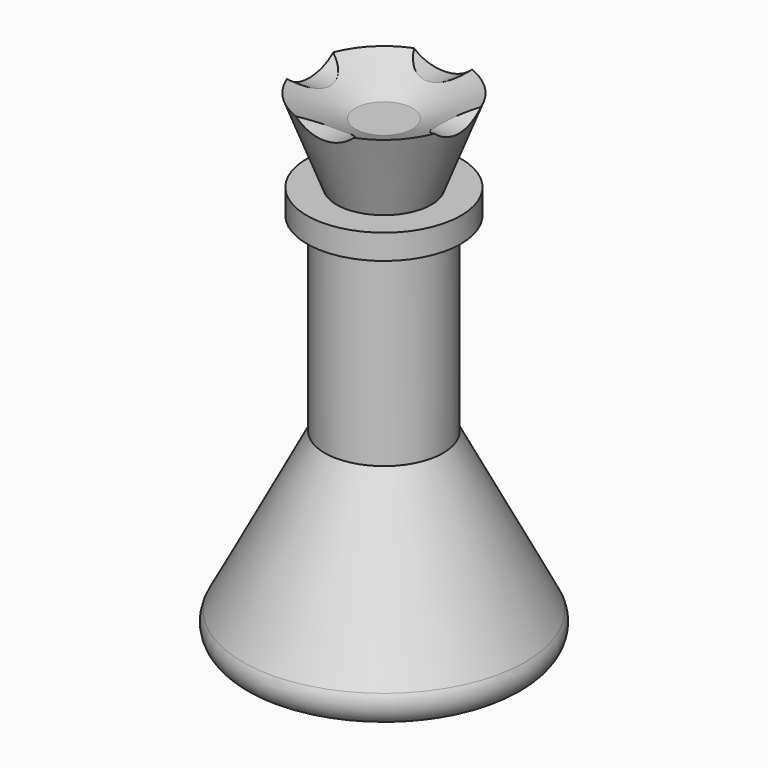
from build123d import *

# Parameters (mm, degrees)
SKETCH003_R  = 6
PAD001_DEPTH = 22.5
SKETCH001_R  = 6
PAD_DEPTH    = 22.5


with BuildPart() as pad001:
    # Sketch003 → Pad001 (new body, symmetric)
    with BuildSketch(Plane.YZ):
        with Locations((0, 73)):
            Circle(SKETCH003_R)
    extrude(amount=PAD001_DEPTH, both=True)


with BuildPart() as pad:
    # Sketch001 → Pad (new body, symmetric)
    with BuildSketch(Plane.XZ):
        with Locations((0, 73)):
            Circle(SKETCH001_R)
    extrude(amount=PAD_DEPTH, both=True)


with BuildPart() as cut001:
    # Sketch → Revolution (revolve)
    with BuildSketch(Plane.XZ):
        with BuildLine():
            Line((0, 65.425804), (4.000562, 65.425804))
            Line((4.000562, 65.425804), (11.168226, 68.592918))
            Line((11.168226, 68.592918), (6.667604, 56.924622))
            Line((6.667604, 56.924622), (10.834842, 56.924622))
            Line((10.834842, 56.924622), (10.834842, 53.424126))
            Line((10.834842, 53.424126), (8.337257, 53.424126))
            Line((8.337257, 53.424126), (8.337257, 26.713955))
            Line((8.337257, 26.713955), (19.875788, 4.581964))
            ThreePointArc((17.097317, 0), (19.776603, 1.508704), (19.875788, 4.581964))
            Line((0, 0), (17.097317, 0))
            Line((0, 65.425804), (0, 0))
        make_face()
    revolve(axis=Axis((0, 0, 0), (0, 0, 1)))

    # Cut: cut Pad
    add(pad.part, mode=Mode.SUBTRACT)

    # Cut001: cut Pad001
    add(pad001.part, mode=Mode.SUBTRACT)


solid = cut001.part
